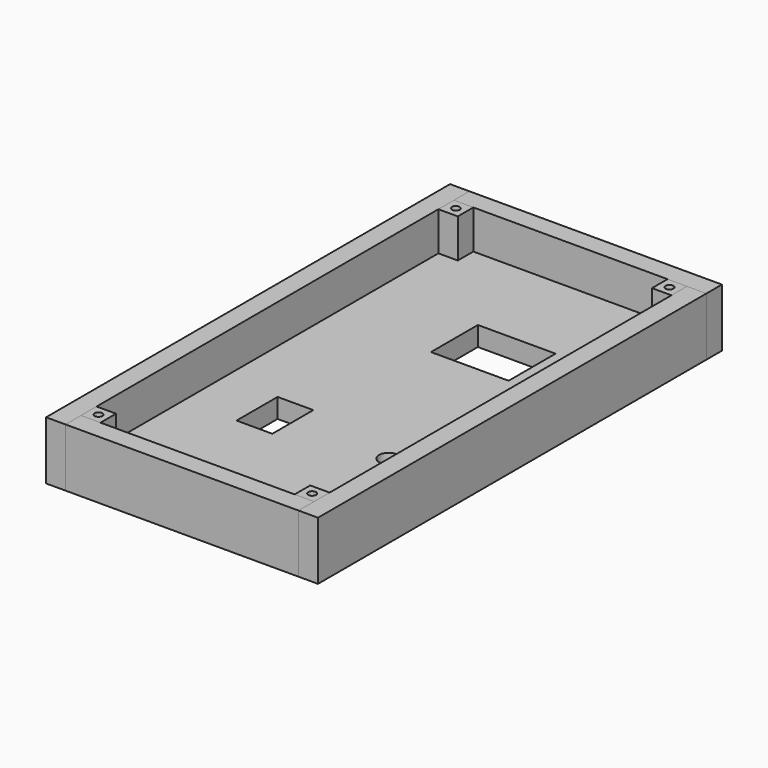
from build123d import *

# Parameters (mm, degrees)
SKETCH_W     = 70
SKETCH_H     = 130
SKETCH_R     = 2.5
SKETCH_W_2   = 9.2
SKETCH_H_2   = 13.2
SKETCH_W_3   = 20
SKETCH_H_3   = 15.1
PAD_DEPTH    = 5
SKETCH001_W  = 70
SKETCH001_H  = 15
PAD001_DEPTH = 5
SKETCH002_W  = 130
SKETCH002_H  = 15
PAD002_DEPTH = 5
SKETCH003_W  = 70
SKETCH003_H  = 15
PAD003_DEPTH = 5
SKETCH004_W  = 130
SKETCH004_H  = 15
PAD004_DEPTH = 5
SKETCH005_W  = 5
SKETCH005_H  = 5
SKETCH005_R  = 1
PAD005_DEPTH = 12.5
SKETCH006_W  = 5
SKETCH006_H  = 5
SKETCH006_R  = 1
PAD006_DEPTH = 12.5
SKETCH007_W  = 5
SKETCH007_H  = 5
SKETCH007_R  = 1
PAD007_DEPTH = 12.5
SKETCH008_W  = 5
SKETCH008_H  = 5
SKETCH008_R  = 1
PAD008_DEPTH = 12.5


with BuildPart() as body:
    # Sketch → Pad (new body)
    with BuildSketch(Plane.XY):
        Rectangle(SKETCH_W, SKETCH_H)
        with Locations((18, -21)):
            Circle(SKETCH_R, mode=Mode.SUBTRACT)
        with Locations((-11.6, -20.6)):
            Rectangle(SKETCH_W_2, SKETCH_H_2, mode=Mode.SUBTRACT)
        with Locations((5.68, 28.06)):
            Rectangle(SKETCH_W_3, SKETCH_H_3, mode=Mode.SUBTRACT)
    extrude(amount=PAD_DEPTH)


with BuildPart() as body_1:
    # Body placement: moved
    add(body.part.moved(Location((-5, 5, -2.5))))


with BuildPart() as body001:
    # Sketch001 → Pad001 (new body)
    with BuildSketch(Plane.XZ):
        Rectangle(SKETCH001_W, SKETCH001_H)
    extrude(amount=PAD001_DEPTH)


with BuildPart() as body001_1:
    # Body001 placement: moved
    add(body001.part.moved(Location((-5, -55, 5))))


with BuildPart() as body002:
    # Sketch002 → Pad002 (new body)
    with BuildSketch(Plane.YZ):
        Rectangle(SKETCH002_W, SKETCH002_H)
    extrude(amount=PAD002_DEPTH)


with BuildPart() as body002_1:
    # Body002 placement: moved
    add(body002.part.moved(Location((25, 5, 5))))


with BuildPart() as body003:
    # Sketch003 → Pad003 (new body)
    with BuildSketch(Plane.XZ):
        Rectangle(SKETCH003_W, SKETCH003_H)
    extrude(amount=PAD003_DEPTH)


with BuildPart() as body003_1:
    # Body003 placement: moved
    add(body003.part.moved(Location((-5, 70, 5))))


with BuildPart() as body004:
    # Sketch004 → Pad004 (new body)
    with BuildSketch(Plane.YZ):
        Rectangle(SKETCH004_W, SKETCH004_H)
    extrude(amount=PAD004_DEPTH)


with BuildPart() as body004_1:
    # Body004 placement: moved
    add(body004.part.moved(Location((-40, 5, 5))))


with BuildPart() as hold_left_bot:
    # Sketch005 → Pad005 (new body)
    with BuildSketch(Plane.XY):
        with Locations((-32.5, 62.5)):
            Rectangle(SKETCH005_W, SKETCH005_H)
        with Locations((-32.5, 62.5)):
            Circle(SKETCH005_R, mode=Mode.SUBTRACT)
    extrude(amount=PAD005_DEPTH)


with BuildPart() as hold_left_top:
    # Sketch006 → Pad006 (new body)
    with BuildSketch(Plane.XY):
        with Locations((-32.5, -52.5)):
            Rectangle(SKETCH006_W, SKETCH006_H)
        with Locations((-32.5, -52.5)):
            Circle(SKETCH006_R, mode=Mode.SUBTRACT)
    extrude(amount=PAD006_DEPTH)


with BuildPart() as hold_right_bot:
    # Sketch007 → Pad007 (new body)
    with BuildSketch(Plane.XY):
        with Locations((22.5, 62.5)):
            Rectangle(SKETCH007_W, SKETCH007_H)
        with Locations((22.5, 62.5)):
            Circle(SKETCH007_R, mode=Mode.SUBTRACT)
    extrude(amount=PAD007_DEPTH)


with BuildPart() as hold_right_top:
    # Sketch008 → Pad008 (new body)
    with BuildSketch(Plane.XY):
        with Locations((22.5, -52.5)):
            Rectangle(SKETCH008_W, SKETCH008_H)
        with Locations((22.5, -52.5)):
            Circle(SKETCH008_R, mode=Mode.SUBTRACT)
    extrude(amount=PAD008_DEPTH)


solid = Compound([body_1.part, body001_1.part, body002_1.part, body003_1.part, body004_1.part, hold_left_bot.part, hold_left_top.part, hold_right_bot.part, hold_right_top.part])
